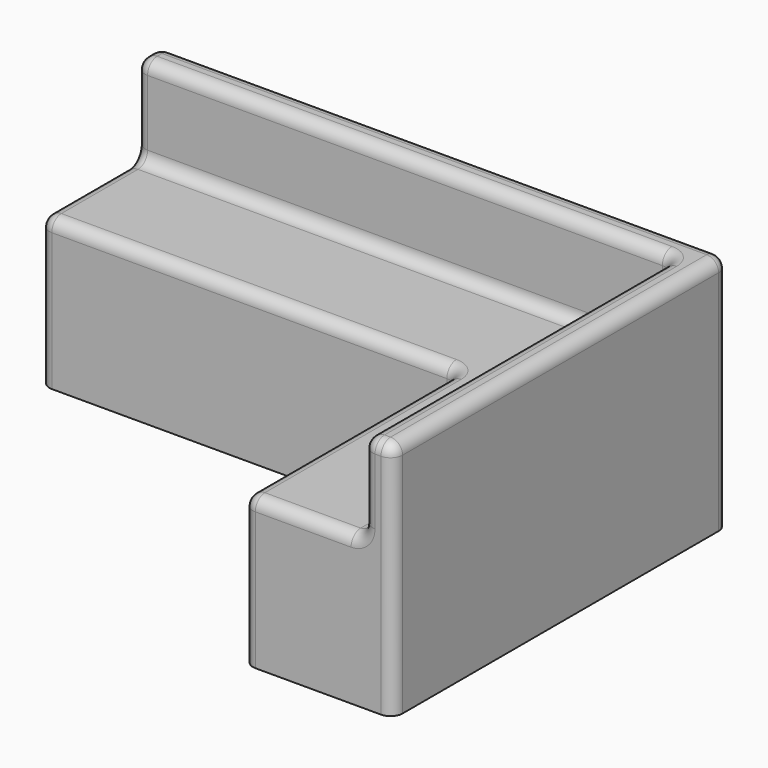
from build123d import *

# Parameters (mm, degrees)
F1_DEPTH = 101.6
F2_DEPTH = 63.5
F3_R     = 5.08


with BuildPart() as f1:
    # F0 (on Top) → F1 (new body)
    with BuildSketch(Plane.XY):
        Polygon((28.1707099802, 104.9363430021), (-200.4292900198, 104.9363430021), (-200.4292900198, 92.2363430021), (28.1707099802, 92.2363430021), (28.1707099802, -72.8636569979), (40.8707099802, -72.8636569979), (40.8707099802, 41.4363430021), (40.8707099802, 92.2363430021), (40.8707099802, 104.9363430021), align=None)
    extrude(amount=F1_DEPTH)

    # F0 (on Top) → F2 (join)
    with BuildSketch(Plane.XY):
        Polygon((28.1707099802, 104.9363430021), (-200.4292900198, 104.9363430021), (-200.4292900198, 92.2363430021), (28.1707099802, 92.2363430021), (28.1707099802, -72.8636569979), (40.8707099802, -72.8636569979), (40.8707099802, 41.4363430021), (40.8707099802, 92.2363430021), (40.8707099802, 104.9363430021), align=None)
        Polygon((28.1707099802, 92.2363430021), (-200.4292900198, 92.2363430021), (-200.4292900198, 41.4363430021), (-22.6292900198, 41.4363430021), (-22.6292900198, -72.8636569979), (28.1707099802, -72.8636569979), align=None)
    extrude(amount=F2_DEPTH)

    # F3
    f3_edges = [f1.edges().sort_by_distance(p)[0] for p in [
        (28.17071, 9.686343, 101.6),
        (-86.12929, 92.236343, 101.6),
        (28.17071, 92.236343, 82.55),
        (28.17071, 9.686343, 63.5),
        (28.17071, -72.863657, 82.55),
        (-200.42929, 92.236343, 82.55),
        (-86.12929, 92.236343, 63.5),
        (2.77071, -72.863657, 63.5),
        (-22.62929, -15.713657, 63.5),
        (-111.52929, 41.436343, 63.5),
        (-200.42929, 66.836343, 63.5),
        (-22.62929, 41.436343, 31.75),
        (-200.42929, 41.436343, 31.75),
        (-79.77929, 104.936343, 101.6),
        (40.87071, 16.036343, 101.6),
        (34.52071, -72.863657, 101.6),
        (-200.42929, 98.586343, 101.6),
        (-22.62929, -72.863657, 31.75),
        (-200.42929, 104.936343, 50.8),
        (40.87071, -72.863657, 50.8),
        (40.87071, 104.936343, 50.8),
    ]]
    fillet(f3_edges, radius=F3_R)


solid = f1.part
